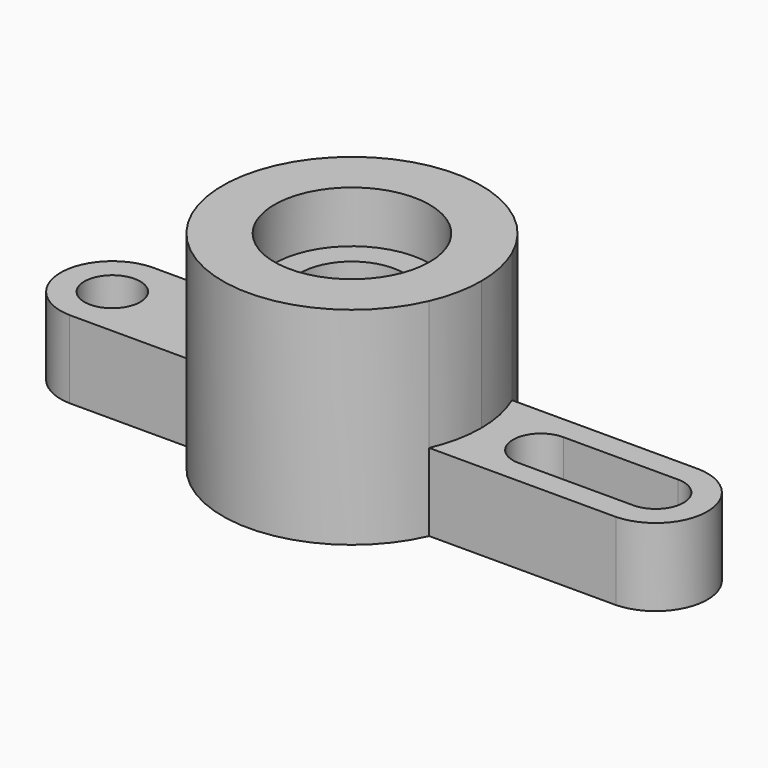
from build123d import *

# Parameters (mm, degrees)
F0_R     = 19.05
F1_DEPTH = 50.8
F0_R_2   = 6.857792
F2_DEPTH = 19.05
F3_DEPTH = 19.05
F0_R_3   = 12.7
F4_DEPTH = 38.1


with BuildPart() as f1:
    # F0 (on Top) → F1 (new body)
    with BuildSketch(Plane.XY):
        with BuildLine():
            ThreePointArc((29.102578, -12.692613), (31.081098, -6.482887), (31.75, 0))
            ThreePointArc((31.75, 0), (31.080701, 6.484792), (29.101022, 12.696182))
            ThreePointArc((29.101022, 12.696182), (-0.00495, 31.75), (-29.10498, 12.687106))
            ThreePointArc((-29.10498, 12.687106), (-31.75, -0.005082), (-29.100917, -12.696423))
            ThreePointArc((-29.100917, -12.696423), (0.002078, -31.75), (29.102578, -12.692613))
        make_face()
        Circle(F0_R, mode=Mode.SUBTRACT)
    extrude(amount=F1_DEPTH)

    # F0 (on Top) → F2 (join)
    with BuildSketch(Plane.XY):
        with BuildLine():
            ThreePointArc((-29.100917, -12.696423), (-31.75, -0.005082), (-29.10498, 12.687106))
            Line((-29.10498, 12.687106), (-58.254777, 12.687106))
            Line((-58.254777, 12.687106), (-59.399047, 12.687106))
            ThreePointArc((-59.399047, 12.687106), (-71.52619, -0.135445), (-59.128318, -12.696423))
            Line((-59.128318, -12.696423), (-58.525507, -12.696423))
            Line((-58.525507, -12.696423), (-29.100917, -12.696423))
        make_face()
        with Locations((-58.826912, 0)):
            Circle(F0_R_2, mode=Mode.SUBTRACT)
    extrude(amount=F2_DEPTH)

    # F0 (on Top) → F3 (join)
    with BuildSketch(Plane.XY):
        with BuildLine():
            ThreePointArc((29.101022, 12.696182), (31.080701, 6.484792), (31.75, 0))
            ThreePointArc((31.75, 0), (31.081098, -6.482887), (29.102578, -12.692613))
            Line((29.102578, -12.692613), (74.115909, -12.692613))
            Line((74.115909, -12.692613), (74.982091, -12.692613))
            ThreePointArc((74.982091, -12.692613), (87.248854, 0.060869), (74.860406, 12.696182))
            Line((74.860406, 12.696182), (74.237594, 12.696182))
            Line((74.237594, 12.696182), (29.101022, 12.696182))
        make_face()
        with BuildLine():
            ThreePointArc((74.548989, 6.858), (81.407, -0.000503), (74.547984, -6.858))
            Line((74.547984, -6.858), (46.607984, -6.853861))
            ThreePointArc((46.607984, -6.853861), (39.512576, -0.106876), (46.394271, 6.857956))
            Line((46.394271, 6.857956), (74.548989, 6.858))
        make_face(mode=Mode.SUBTRACT)
    extrude(amount=F3_DEPTH)

    # F0 (on Top) → F4 (join)
    with BuildSketch(Plane.XY):
        Circle(F0_R)
        Circle(F0_R_3, mode=Mode.SUBTRACT)
    extrude(amount=F4_DEPTH)


solid = f1.part
